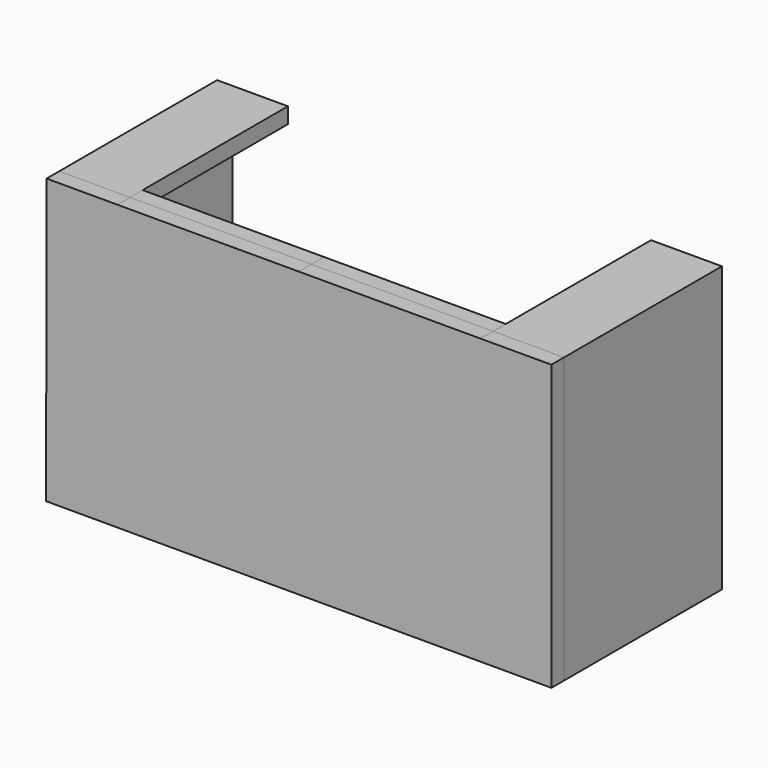
from build123d import *

# Parameters (mm, degrees)
F1_DEPTH = 2
F2_DEPTH = 2
F3_DEPTH = 25


with BuildPart() as f1:
    # F0 (on Front) → F1 (new body)
    with BuildSketch(Plane.XZ):
        Polygon((7, 59.633072), (7, 57.633072), (53, 57.633072), (53, 59.663545), (29.980112, 59.650782), align=None)
    extrude(amount=-F1_DEPTH)


with BuildPart() as f2:
    # F0 (on Front) → F2 (new body)
    with BuildSketch(Plane.XZ):
        Polygon((60, 25.633072), (0, 25.633072), (0, 57.633072), (7, 57.633072), (7, 59.633072), (-1.963923, 59.633072), (-2.028268, 23.633072), (61.979439, 23.633072), (61.979439, 59.668523), (53, 59.663545), (53, 57.633072), (60, 57.633072), align=None)
        Polygon((7, 59.633072), (7, 57.633072), (53, 57.633072), (53, 59.663545), (29.980112, 59.650782), align=None)
        Polygon((0, 57.633072), (0, 25.633072), (60, 25.633072), (60, 57.633072), (53, 57.633072), (7, 57.633072), align=None)
    extrude(amount=F2_DEPTH)


with BuildPart() as f3:
    # F0 (on Front) → F3 (new body)
    with BuildSketch(Plane.XZ):
        Polygon((60, 25.633072), (0, 25.633072), (0, 57.633072), (7, 57.633072), (7, 59.633072), (-1.963923, 59.633072), (-2.028268, 23.633072), (61.979439, 23.633072), (61.979439, 59.668523), (53, 59.663545), (53, 57.633072), (60, 57.633072), align=None)
    extrude(amount=-F3_DEPTH)


solid = Compound([f1.part, f2.part, f3.part])
